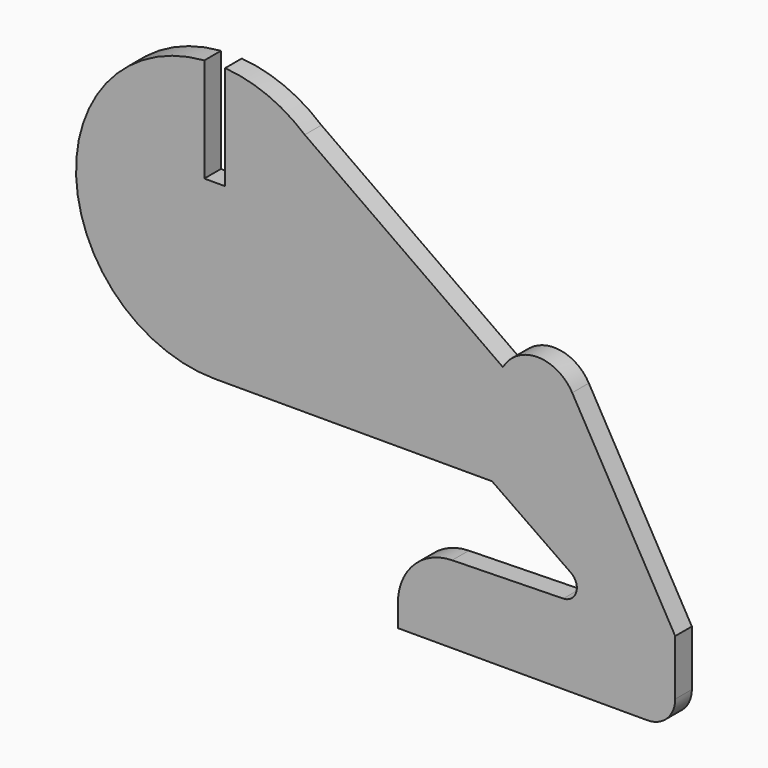
from build123d import *

# Parameters (mm, degrees)
F1_DEPTH = 3


with BuildPart() as f1:
    # F0 (on Front) → F1 (new body)
    with BuildSketch(Plane.XZ):
        with BuildLine():
            Line((-45.218005, 34.439229), (-45.218005, 49.439229))
            ThreePointArc((-45.218005, 49.439229), (-63.703917, 28.74503), (-43.718005, 9.495558))
            Line((-43.718005, 9.495558), (-3.718005, 9.495558))
            Line((-3.718005, 9.495558), (7.654663, 1.584798))
            ThreePointArc((7.654663, 1.584798), (8.427256, -0.635059), (6.55539, -2.0566))
            Line((6.55539, -2.0566), (-9.47062, -2.399568))
            ThreePointArc((-9.47062, -2.399568), (-15.016504, -4.801726), (-17.299454, -10.397736))
            Line((-17.299454, -10.397736), (-17.299454, -13.56711))
            Line((-17.299454, -13.56711), (18.700546, -13.56711))
            ThreePointArc((18.700546, -13.56711), (21.528974, -12.395537), (22.700546, -9.56711))
            Line((22.700546, -9.56711), (22.700546, -1.56711))
            Line((22.700546, -1.56711), (7.843316, 24.495558))
            ThreePointArc((7.843316, 24.495558), (2.843316, 27.400627), (-2.156684, 24.495558))
            Line((-2.156684, 24.495558), (-30.731795, 44.706027))
            ThreePointArc((-30.731795, 44.706027), (-36.098072, 47.987087), (-42.218005, 49.439229))
            Line((-42.218005, 49.439229), (-42.218005, 34.439229))
            Line((-42.218005, 34.439229), (-45.218005, 34.439229))
        make_face()
    extrude(amount=-F1_DEPTH)


solid = f1.part
